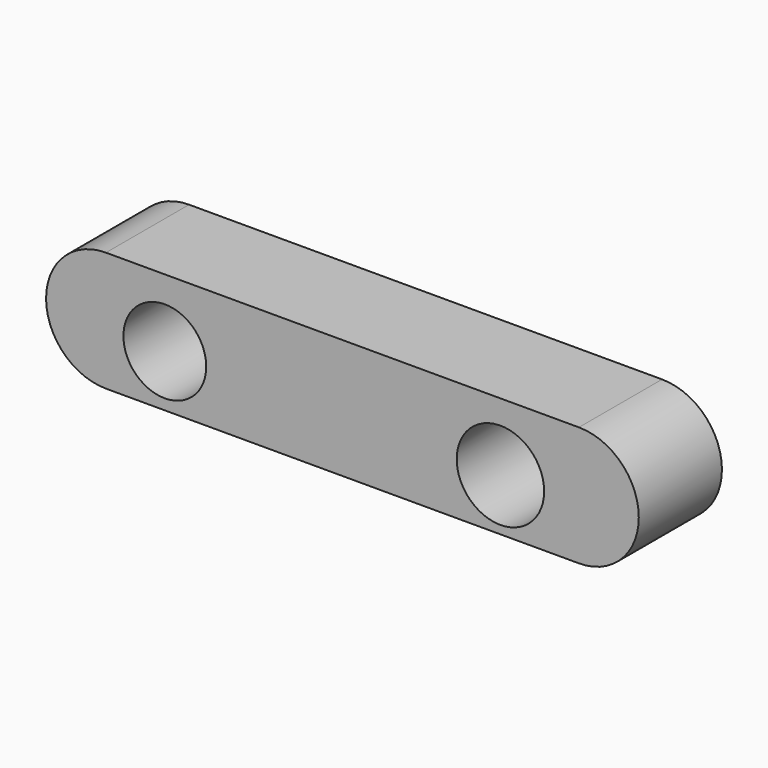
from build123d import *

# Parameters (mm, degrees)
F0_R     = 5.977337
F0_R_2   = 6.310388
F1_DEPTH = 15


with BuildPart() as f1:
    # F0 (on Front) → F1 (new body)
    with BuildSketch(Plane.XZ):
        Polygon((33.567898, 9.772932), (0, 9.772932), (-34.70099, 9.772932), (-34.70099, -7.506745), (33.567898, -7.506745), align=None)
        with Locations((-26.202789, 0)):
            Circle(F0_R, mode=Mode.SUBTRACT)
        with Locations((22.23696, 0)):
            Circle(F0_R_2, mode=Mode.SUBTRACT)
        with BuildLine():
            Line((-34.70099, -7.506745), (-34.70099, 9.772932))
            ThreePointArc((-34.70099, 9.772932), (-43.340828, 1.133094), (-34.70099, -7.506745))
        make_face()
        with BuildLine():
            ThreePointArc((33.567898, -7.506745), (42.207737, 1.133094), (33.567898, 9.772932))
            Line((33.567898, 9.772932), (33.567898, -7.506745))
        make_face()
    extrude(amount=F1_DEPTH)


solid = f1.part
